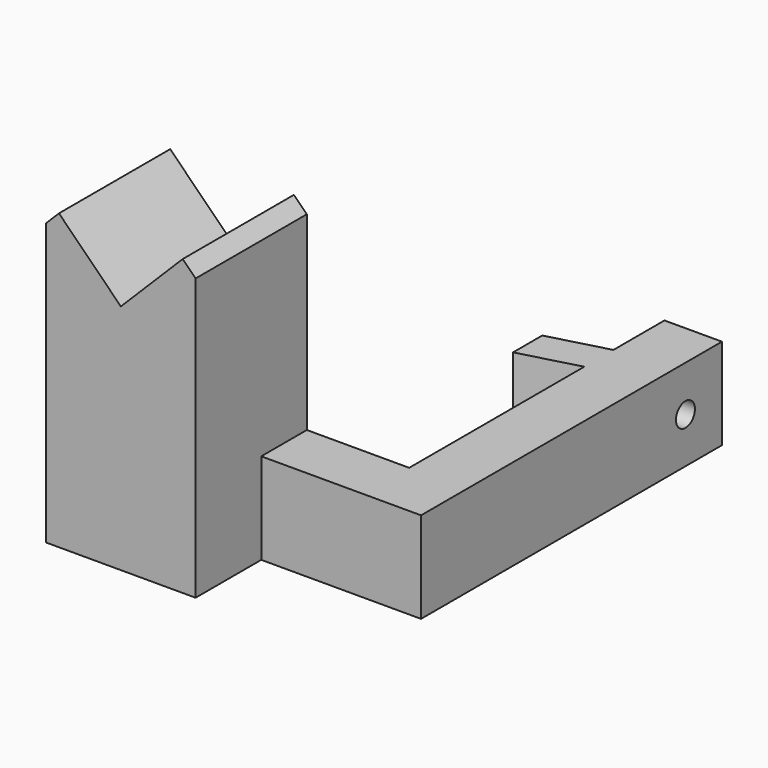
from build123d import *

# Parameters (mm, degrees)
F0_W          = 44.45
F0_H          = 12.7
F1_DEPTH      = 8.001
F3_DEPTH      = 7.9375
F5_DEPTH      = 7.9375
F5_DEPTH_BACK = 11.43
F6_R          = 1.651
F7_DEPTH      = 25.4
F9_DEPTH      = 12.7


with BuildPart() as f1:
    # F0 (on Right) → F1 (new body)
    with BuildSketch(Plane.YZ):
        with Locations((-22.225, 6.35)):
            Rectangle(F0_W, F0_H)
    extrude(amount=F1_DEPTH)

    # F2 (on face) → F3 (join)
    with BuildSketch(Plane.XZ.offset(44.45)):
        Polygon((8.001, 12.7), (0, 12.7), (-35.08248, 12.7), (-35.08248, 0), (0, 0), (8.001, 0), align=None)
    extrude(amount=F3_DEPTH)

    # F4 (on face) → F5 (join, two sides)
    with BuildSketch(Plane.XZ.offset(52.3875)) as f5_sk:
        Polygon((-35.08248, 39.1567536341), (-35.08248, 0), (-14.25448, 0), (-14.25448, 39.1567536341), (-16.0505312242, 40.9528048583), (-24.66848, 32.3348560825), (-33.2864287758, 40.9528048583), align=None)
    extrude(amount=-F5_DEPTH)
    extrude(f5_sk.sketch, amount=F5_DEPTH_BACK)

    # F6 (on face) → F7 (cut)
    with BuildSketch(Plane.YZ.offset(8.001)):
        with Locations((-6.35, 6.35)):
            Circle(F6_R)
    extrude(amount=-F7_DEPTH, mode=Mode.SUBTRACT)

    # F8 (on face) → F9 (join, through all)
    with BuildSketch(Plane(origin=(0, 0, 0), x_dir=(1, 0, 0), z_dir=(0, 0, -1))):
        Polygon((-8.1650869207, 11.0778284465), (0, 8.89), (0, 13.97), (-8.1650869207, 16.1578284465), align=None)
    extrude(amount=-F9_DEPTH)


solid = f1.part
